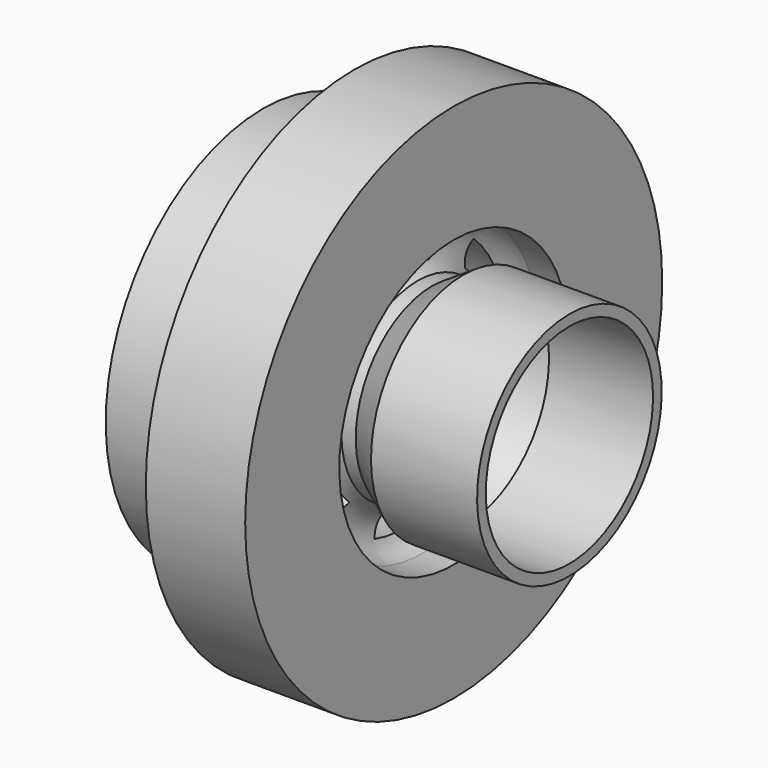
from build123d import *

# Parameters (mm, degrees)
F3_DEPTH = 140
F5_D     = 24
F5_DEPTH = 100
F5_TIP   = 7.2103274283


with BuildPart() as f1:
    # F0 (on Front) → F1 (revolve)
    with BuildSketch(Plane.XZ):
        Polygon((-1.5155260398, 80.1515013238), (-1.6437353146, 64.1515013238), (-171.6437353146, 65.5137248684), (-171.6437353146, -1.8484986762), (-116.1690213024, -1.8484986762), (-60.6943072902, -1.8484986762), (29.2721830071, -1.8484986762), (68.3562646854, -1.8484986762), (68.3562646856, 79.3194004249), (68.3562646856, 146.1515013238), (-56.7185516386, 146.1515013238), align=None)
        with BuildLine():
            Line((-60.6943072902, -1.8484986762), (-116.1690213024, -1.8484986762))
            Line((-116.1690213024, -1.8484986762), (-130.0498999893, -21.8484986762))
            Line((-130.0498999893, -21.8484986762), (-130.0498999893, -61.8484986762))
            Line((-130.0498999893, -61.8484986762), (22.9833192886, -61.8484986762))
            ThreePointArc((22.9833192886, -61.8484986762), (3.9159803894, -29.5203853555), (29.2721830071, -1.8484986762))
            Line((29.2721830071, -1.8484986762), (-60.6943072902, -1.8484986762))
        make_face()
        Polygon((22.9833192886, -61.8484986762), (-130.0498999893, -61.8484986762), (-191.2617840111, -61.8484986762), (-191.1197163402, -75.8484986762), (45.0953505933, -75.8484986762), (83.0453708768, -50.2909868956), (213.9352560043, -50.2909868956), (213.9352560043, -36.6648137569), (80.4508551955, -36.6648137569), (41.0931288958, -61.8484986762), align=None)
    revolve(axis=Axis((-18.4481963515, 0, -181.8484986762), (1, 0, 0)))

    # F2 (on face) → F3 (cut)
    with BuildSketch(Plane(origin=(-130.0498999893, 0, 0), x_dir=(0, -1, 0), z_dir=(-1, 0, 0))):
        with BuildLine():
            Line((31.2392264938, -65.9860339689), (45.9312041985, -28.6587765722))
            ThreePointArc((45.9312041985, -28.6587765722), (0, -21.921119915), (-45.9312041985, -28.6587765722))
            Line((-45.9312041985, -28.6587765722), (-31.2392264938, -65.9860339689))
            ThreePointArc((-31.2392264938, -65.9860339689), (0, -61.8484986762), (31.2392264938, -65.9860339689))
        make_face()
        with BuildLine():
            Line((155.63179304, -218.665770066), (115.9594510286, -212.7257672917))
            ThreePointArc((115.9594510286, -212.7257672917), (103.9230484541, -241.8484986762), (84.7202245348, -266.8336947681))
            Line((84.7202245348, -266.8336947681), (109.7005888416, -298.2209493906))
            ThreePointArc((109.7005888416, -298.2209493906), (138.5011727679, -261.8121880569), (155.63179304, -218.665770066))
        make_face()
        with BuildLine():
            Line((109.7005888416, -65.4760479619), (84.7202245348, -96.8633025843))
            ThreePointArc((84.7202245348, -96.8633025843), (103.9230484541, -121.8484986762), (115.9594510286, -150.9712300607))
            Line((115.9594510286, -150.9712300607), (155.63179304, -145.0312272865))
            ThreePointArc((155.63179304, -145.0312272865), (138.5011727679, -101.8848092956), (109.7005888416, -65.4760479619))
        make_face()
        with BuildLine():
            ThreePointArc((31.2392264938, -297.7109633836), (0, -301.8484986762), (-31.2392264938, -297.7109633836))
            Line((-31.2392264938, -297.7109633836), (-45.9312041985, -335.0382207803))
            ThreePointArc((-45.9312041985, -335.0382207803), (0, -341.7758774375), (45.9312041985, -335.0382207803))
            Line((45.9312041985, -335.0382207803), (31.2392264938, -297.7109633836))
        make_face()
        with BuildLine():
            ThreePointArc((-84.7202245348, -266.8336947681), (-103.9230484541, -241.8484986762), (-115.9594510286, -212.7257672917))
            Line((-115.9594510286, -212.7257672917), (-155.63179304, -218.665770066))
            ThreePointArc((-155.63179304, -218.665770066), (-138.5011727679, -261.8121880569), (-109.7005888416, -298.2209493906))
            Line((-109.7005888416, -298.2209493906), (-84.7202245348, -266.8336947681))
        make_face()
        with BuildLine():
            ThreePointArc((-115.9594510286, -150.9712300607), (-103.9230484541, -121.8484986762), (-84.7202245348, -96.8633025843))
            Line((-84.7202245348, -96.8633025843), (-109.7005888416, -65.4760479619))
            ThreePointArc((-109.7005888416, -65.4760479619), (-138.5011727679, -101.8848092956), (-155.63179304, -145.0312272865))
            Line((-155.63179304, -145.0312272865), (-115.9594510286, -150.9712300607))
        make_face()
    extrude(amount=-F3_DEPTH, mode=Mode.SUBTRACT)

    # F5
    with Locations(Plane(origin=(-171.6437353146, 0, 0), x_dir=(0, -1, 0), z_dir=(-1, 0, 0))):
        with Locations((-115, 17.3373441942), (0, 48.1515013238), (115, 17.3373441942), (199.1858428704, -66.8484986762), (230, -181.8484986762), (-199.1858428704, -66.8484986762), (-230, -181.8484986762), (-199.1858428704, -296.8484986762), (-115, -381.0343415467), (0, -411.8484986762), (115, -381.0343415467), (199.1858428704, -296.8484986762)):
            Hole(F5_D / 2, depth=F5_DEPTH)
            with Locations((0, 0, -(F5_DEPTH + F5_TIP / 2))):  # 118° drill point
                Cone(0, F5_D / 2, F5_TIP, mode=Mode.SUBTRACT)


solid = f1.part
